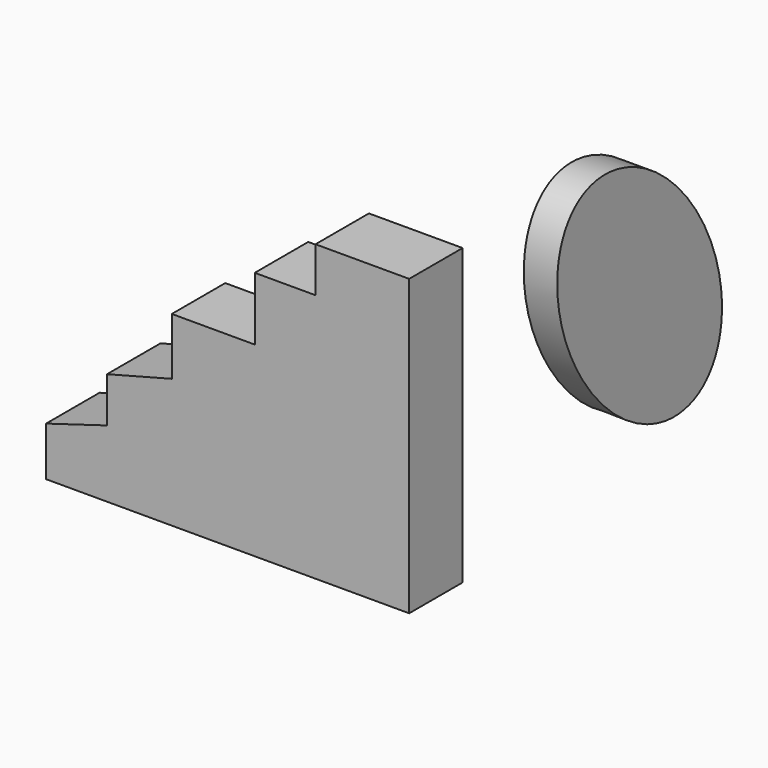
from build123d import *

# Parameters (mm, degrees)
F1_DEPTH = 12.7
F2_DEPTH = 7.62
F4_DEPTH = 25.4


with BuildPart() as f1:
    # F0 (on Right) → F1 (new body)
    with BuildSketch(Plane.YZ):
        with BuildLine():
            add(Edge.make_bspline(
                [(-28.350314, 43.905351), (-75.121301, 13.704656), (-9.210336, -37.053024), (56.700628, -87.810703), (37.56065, -6.852328), (18.420672, 74.106047), (-28.350314, 43.905351)],
                knots=[0, 0, 0, 2.094395, 2.094395, 4.18879, 4.18879, 6.283185, 6.283185, 6.283185], degree=2, weights=[1, 0.5, 1, 0.5, 1, 0.5, 1]))
        make_face()
    extrude(amount=F1_DEPTH)

    # F0 (on Right) → F2 (join)
    with BuildSketch(Plane.YZ):
        with BuildLine():
            add(Edge.make_bspline(
                [(-28.350314, 43.905351), (-75.121301, 13.704656), (-9.210336, -37.053024), (56.700628, -87.810703), (37.56065, -6.852328), (18.420672, 74.106047), (-28.350314, 43.905351)],
                knots=[0, 0, 0, 2.094395, 2.094395, 4.18879, 4.18879, 6.283185, 6.283185, 6.283185], degree=2, weights=[1, 0.5, 1, 0.5, 1, 0.5, 1]))
        make_face()
    extrude(amount=F2_DEPTH)


with BuildPart() as f4:
    # F3 (on Front) → F4 (new body)
    with BuildSketch(Plane.XZ):
        Polygon((-192.650631, -99.280551), (-192.650631, -117.898986), (-54.596458, -117.898986), (-54.596458, -5.946344), (-90.222508, -5.946344), (-90.222508, -23.006715), (-113.304183, -23.006715), (-113.304183, -47.035228), (-144.850105, -47.035228), (-144.850105, -68.756744), (-169.474617, -75.208202), (-169.474617, -92.378132), align=None)
    extrude(amount=F4_DEPTH)


solid = Compound([f1.part, f4.part])
